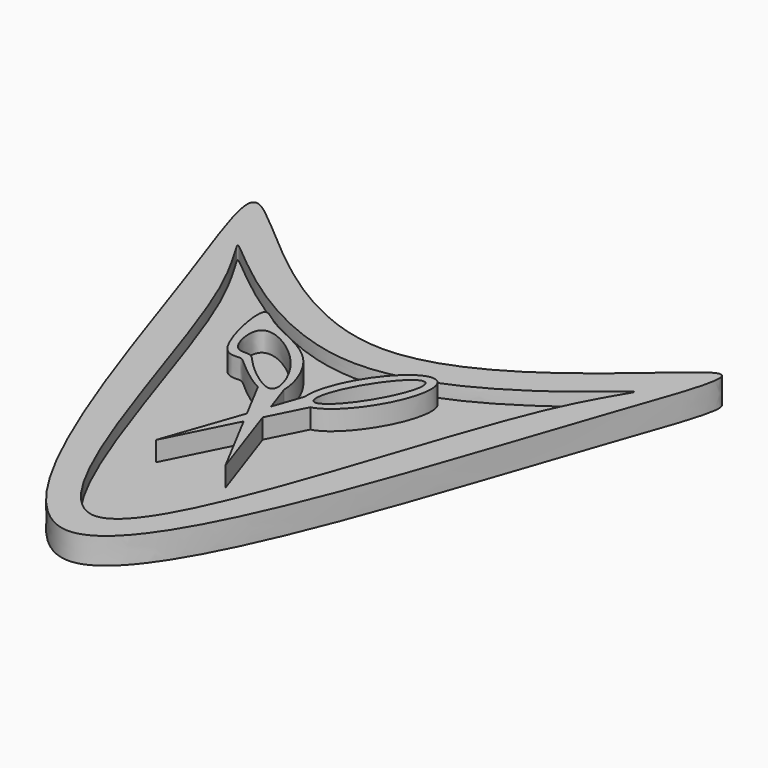
from build123d import *

# Parameters (mm, degrees)
F1_DEPTH = 2.54
F3_DEPTH = 1.27
F5_DEPTH = 1.905


with BuildPart() as f1:
    # F0 (on Top) → F1 (new body)
    with BuildSketch(Plane.XY):
        with BuildLine():
            add(Edge.make_bspline(
                [(-19.05, 0), (-14.0701532741, -14.4708520881), (0, -61.7291479119), (17.9701382761, -1.3717307537), (26.9168084968, 20.5117345686), (0, -11.9593012484), (-26.9168084968, 20.5117345686), (-21.8106419297, 8.0221025329), (-19.05, 0)],
                knots=[0, 0, 0, 0, 0.2146331294, 0.4292662587, 0.548250888, 0.7146331294, 0.8810153707, 1, 1, 1, 1], degree=3))
        make_face()
    extrude(amount=F1_DEPTH)

    # F2 (on face) → F3 (cut)
    with BuildSketch(Plane.XY.offset(2.54)):
        with BuildLine():
            add(Edge.make_bspline(
                [(0, -34.925), (5.5870096117, -34.925), (13.5774615524, -0.409014654), (22.9743111974, 10.5786818437), (0, -11.8944848933), (-22.9743111974, 10.5786818437), (-13.5774615524, -0.409014654), (-5.5870096117, -34.925), (0, -34.925)],
                knots=[0, 0, 0, 0, 0.229854977, 0.3287349181, 0.5, 0.6712650819, 0.770145023, 1, 1, 1, 1], degree=3))
        make_face()
    extrude(amount=-F3_DEPTH, mode=Mode.SUBTRACT)

    # F4 (on face) → F5 (join)
    with BuildSketch(Plane.XY.offset(1.27)):
        with BuildLine():
            add(Edge.make_bspline(
                [(-0.9418117738, -10.8056232593), (-0.941305465, -9.5940879134), (-2.6410423743, -4.6573339874), (-8.0821209178, -3.4151811089), (-9.8510135387, -1.4604998613), (-10.075112167, -1.8474542616)],
                knots=[0.5861109288, 0.5861109288, 0.5861109288, 0.5861109288, 0.7046767141, 0.8989197638, 1, 1, 1, 1], degree=3))
            add(Edge.make_bspline(
                [(-10.075112167, -1.8474542616), (-10.4994247826, -2.5801211007), (-9.0909050129, -9.3304707356), (-6.6936826194, -8.6569856228), (-6.2105561471, -9.2112515132), (-3.9007348159, -11.1357762499), (-2.7624990325, -11.6963190958)],
                knots=[0, 0, 0, 0, 0.1913872463, 0.2859264494, 0.3602997552, 0.4747041638, 0.4747041638, 0.4747041638, 0.4747041638], degree=3))
            add(Edge.make_bspline(
                [(-2.7624990325, -11.6963190958), (-2.2206749365, -11.9631492422), (-1.2335176441, -12.2282004748), (-0.9420549571, -11.3875310556), (-0.9418117738, -10.8056232593)],
                knots=[0.4747041638, 0.4747041638, 0.4747041638, 0.4747041638, 0.5291630608, 0.5861109288, 0.5861109288, 0.5861109288, 0.5861109288], degree=3))
        make_face()
        with BuildLine():
            add(Edge.make_bspline(
                [(-8.3925437492, -4.3390877768), (-7.5656651386, -3.4884542378), (-2.6107273875, -6.4128501869), (-0.4860740639, -13.1374426013), (-5.651672466, -9.0224324086), (-6.416810911, -7.6674799625), (-8.3417839111, -8.2890900223), (-9.0170727973, -4.9815585671), (-8.3925437492, -4.3390877768)],
                knots=[0, 0, 0, 0, 0.2224471318, 0.4168941435, 0.6070125439, 0.7246085205, 0.8319890082, 1, 1, 1, 1], degree=3))
        make_face(mode=Mode.SUBTRACT)
        with BuildLine():
            add(Edge.make_bspline(
                [(-2.7624990325, -11.6963190958), (-2.2206749365, -11.9631492422), (-1.2335176441, -12.2282004748), (-0.9420549571, -11.3875310556), (-0.9418117738, -10.8056232593)],
                knots=[0.4747041638, 0.4747041638, 0.4747041638, 0.4747041638, 0.5291630608, 0.5861109288, 0.5861109288, 0.5861109288, 0.5861109288], degree=3))
            Line((-2.7624990325, -11.6963190958), (-0.6933951368, -15.6135149228))
            Line((-0.6933951368, -15.6135149228), (0.014440807, -13.5785047997))
            Line((0.014440807, -13.5785047997), (-0.9418117738, -10.8056232593))
        make_face()
        Polygon((0.014440807, -13.5785047997), (-0.6933951368, -15.6135149228), (-0.0836261949, -16.7679201509), (0.6268544319, -15.3543435994), align=None)
        Polygon((-0.0836261949, -16.7679201509), (-0.6933951368, -15.6135149228), (-3.3675426285, -23.3016201458), align=None)
        with BuildLine():
            Line((1.0183631121, -10.6922540074), (0.014440807, -13.5785047997))
            Line((0.014440807, -13.5785047997), (0.6268544319, -15.3543435994))
            Line((0.6268544319, -15.3543435994), (2.4067848809, -11.8129832146))
            add(Edge.make_bspline(
                [(1.5632608685, -11.7211891461), (1.9054576797, -11.9256183954), (2.4067848809, -11.8129832146)],
                knots=[0, 0, 0, 0.3631664302, 0.3631664302, 0.3631664302], degree=2, weights=[1, 0.9835590176, 1]))
            add(Edge.make_bspline(
                [(1.0183631121, -10.6922540074), (1.1107797798, -11.4508757879), (1.5632608685, -11.7211891461)],
                knots=[5.8068440318, 5.8068440318, 5.8068440318, 6.2831853072, 6.2831853072, 6.2831853072], degree=2, weights=[1, 0.9717711935, 1]))
        make_face()
        Polygon((0.6268544319, -15.3543435994), (-0.0836261949, -16.7679201509), (3.3675426285, -23.3016201458), align=None)
        with BuildLine():
            add(Edge.make_bspline(
                [(2.4067848809, -11.8129832146), (5.899509842, -11.028258774), (7.4628268088, -5.3229815437), (9.0261437756, 0.3822956866), (4.7787870889, -3.1564340471), (0.5314304021, -6.6951637808), (1.0183631121, -10.6922540074)],
                knots=[0.3631664302, 0.3631664302, 0.3631664302, 2.1777256307, 2.1777256307, 3.9922848312, 3.9922848312, 5.8068440318, 5.8068440318, 5.8068440318], degree=2, weights=[1, 0.6158912416, 1, 0.6158912416, 1, 0.6158912416, 1]))
            add(Edge.make_bspline(
                [(1.0183631121, -10.6922540074), (1.1107797798, -11.4508757879), (1.5632608685, -11.7211891461)],
                knots=[5.8068440318, 5.8068440318, 5.8068440318, 6.2831853072, 6.2831853072, 6.2831853072], degree=2, weights=[1, 0.9717711935, 1]))
            add(Edge.make_bspline(
                [(1.5632608685, -11.7211891461), (1.9054576797, -11.9256183954), (2.4067848809, -11.8129832146)],
                knots=[0, 0, 0, 0.3631664302, 0.3631664302, 0.3631664302], degree=2, weights=[1, 0.9835590176, 1]))
        make_face()
        with BuildLine():
            add(Edge.make_bspline(
                [(2.0459327833, -10.9369151487), (3.8884076141, -12.0308845449), (6.4161239344, -5.6751354766), (8.9438402546, 0.6806135916), (4.5736491036, -4.5811660804), (0.2034579525, -9.8429457525), (2.0459327833, -10.9369151487)],
                knots=[0, 0, 0, 2.0943951024, 2.0943951024, 4.1887902048, 4.1887902048, 6.2831853072, 6.2831853072, 6.2831853072], degree=2, weights=[1, 0.5, 1, 0.5, 1, 0.5, 1]))
        make_face(mode=Mode.SUBTRACT)
    extrude(amount=F5_DEPTH)


solid = f1.part
